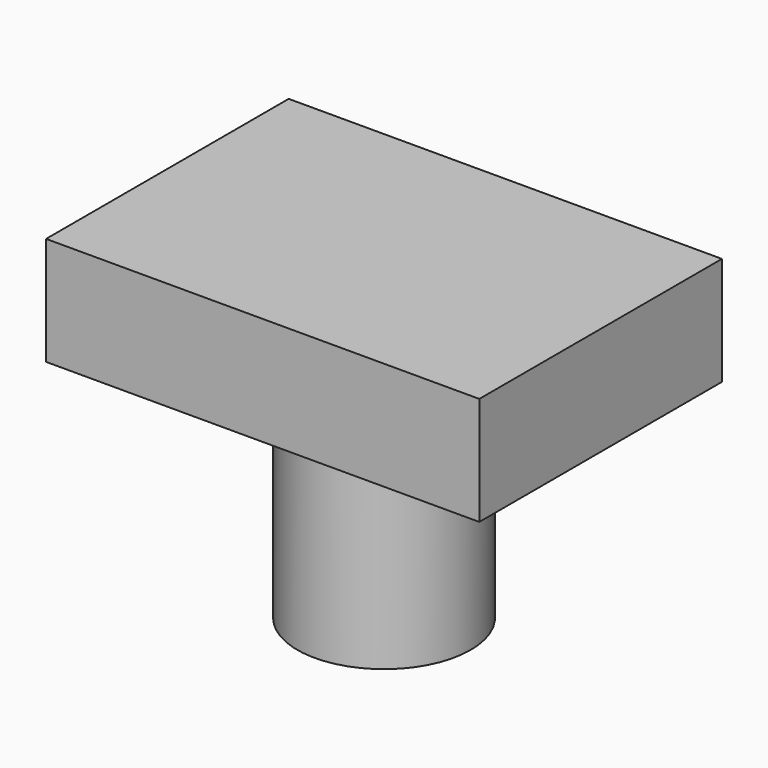
from build123d import *

# Parameters (mm, degrees)
F0_W     = 20
F0_H     = 14
F0_R     = 4
F1_DEPTH = 5
F2_DEPTH = 10


with BuildPart() as f1:
    # F0 (on Top) → F1 (new body)
    with BuildSketch(Plane.XY):
        Rectangle(F0_W, F0_H)
        Circle(F0_R, mode=Mode.SUBTRACT)
        Circle(F0_R)
    extrude(amount=F1_DEPTH)

    # F0 (on Top) → F2 (join)
    with BuildSketch(Plane.XY):
        Circle(F0_R)
    extrude(amount=-F2_DEPTH)


solid = f1.part
